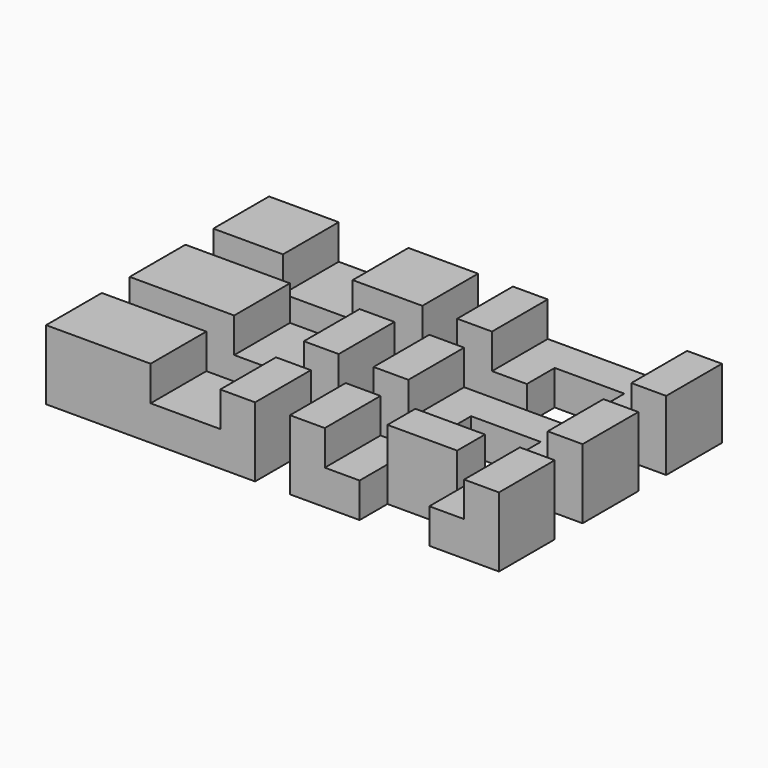
from build123d import *

# Parameters (mm, degrees)
F0_W     = 12.7000005782
F0_H     = 12.7
F1_DEPTH = 12.7
F0_W_2   = 12.6999994218
F0_W_3   = 19.05
F0_W_4   = 6.35
F0_H_2   = 6.35
F0_W_5   = 6.3500002891
F0_W_6   = 12.7
F2_DEPTH = 6.35


with BuildPart() as f1:
    # F0 (on Top) → F1 (new body)
    with BuildSketch(Plane.XY):
        with Locations((-34.9249997109, 19.05)):
            Rectangle(F0_W, F0_H)
    extrude(amount=F1_DEPTH)



with BuildPart() as f1b:
    # F0 (on Top) → F1, piece 2 (new body)
    with BuildSketch(Plane.XY):
        with Locations((-9.5249997109, 19.05)):
            Rectangle(F0_W_2, F0_H)
    extrude(amount=F1_DEPTH)


with BuildPart() as f1c:
    # F0 (on Top) → F1, piece 3 (new body)
    with BuildSketch(Plane.XY):
        with Locations((-31.75, 0)):
            Rectangle(F0_W_3, F0_H)
    extrude(amount=F1_DEPTH)



with BuildPart() as f1d:
    # F0 (on Top) → F1, piece 4 (new body)
    with BuildSketch(Plane.XY):
        with Locations((-6.35, 0)):
            Rectangle(F0_W_4, F0_H)
    extrude(amount=F1_DEPTH)


with BuildPart() as f1e:
    # F0 (on Top) → F1, piece 5 (new body)
    with BuildSketch(Plane.XY):
        with Locations((-6.35, -19.05)):
            Rectangle(F0_W_4, F0_H)
    extrude(amount=F1_DEPTH)



with BuildPart() as f1f:
    # F0 (on Top) → F1, piece 6 (new body)
    with BuildSketch(Plane.XY):
        with Locations((-31.75, -19.05)):
            Rectangle(F0_W_3, F0_H)
    extrude(amount=F1_DEPTH)


with BuildPart() as f1g:
    # F0 (on Top) → F1, piece 7 (new body)
    with BuildSketch(Plane.XY):
        with Locations((6.35, -19.05)):
            Rectangle(F0_W_4, F0_H)
    extrude(amount=F1_DEPTH)



with BuildPart() as f1h:
    # F0 (on Top) → F1, piece 8 (new body)
    with BuildSketch(Plane.XY):
        with Locations((22.2249997109, -15.875)):
            Rectangle(F0_W_2, F0_H_2)
    extrude(amount=F1_DEPTH)


with BuildPart() as f1i:
    # F0 (on Top) → F1, piece 9 (new body)
    with BuildSketch(Plane.XY):
        with Locations((38.0999998555, -19.05)):
            Rectangle(F0_W_5, F0_H)
    extrude(amount=F1_DEPTH)


with BuildPart() as f1j:
    # F0 (on Top) → F1, piece 10 (new body)
    with BuildSketch(Plane.XY):
        with Locations((38.0999998555, 0)):
            Rectangle(F0_W_5, F0_H)
    extrude(amount=F1_DEPTH)



with BuildPart() as f1k:
    # F0 (on Top) → F1, piece 11 (new body)
    with BuildSketch(Plane.XY):
        with Locations((6.35, 0)):
            Rectangle(F0_W_4, F0_H)
    extrude(amount=F1_DEPTH)


with BuildPart() as f1l:
    # F0 (on Top) → F1, piece 12 (new body)
    with BuildSketch(Plane.XY):
        with Locations((6.35, 19.05)):
            Rectangle(F0_W_4, F0_H)
    extrude(amount=F1_DEPTH)



with BuildPart() as f1m:
    # F0 (on Top) → F1, piece 13 (new body)
    with BuildSketch(Plane.XY):
        with Locations((38.0999998555, 19.05)):
            Rectangle(F0_W_5, F0_H)
    extrude(amount=F1_DEPTH)


with BuildPart() as f1_1:
    add(f1.part)

    add(f1b.part)  # F2 merges F1b
    # F0 (on Top) → F2 (join)
    with BuildSketch(Plane.XY):
        with Locations((-22.2249994218, 19.05)):
            Rectangle(F0_W_6, F0_H)
    extrude(amount=F2_DEPTH)


with BuildPart() as f1c_1:
    add(f1c.part)

    add(f1d.part)  # F2#2 merges F1d
    # F0 (on Top) → F2, piece 2 (join)
    with BuildSketch(Plane.XY):
        with Locations((-15.875, 0)):
            Rectangle(F0_W_6, F0_H)
    extrude(amount=F2_DEPTH)


with BuildPart() as f1j_1:
    add(f1j.part)

    add(f1k.part)  # F2#3 merges F1k
    # F0 (on Top) → F2, piece 3 (join)
    with BuildSketch(Plane.XY):
        Polygon((28.5749994218, -6.35), (34.9249997109, -6.35), (34.9249997109, 6.35), (9.525, 6.35), (9.525, -6.35), (15.875, -6.35), (15.875, 0), (28.5749994218, 0), align=None)
    extrude(amount=F2_DEPTH)


with BuildPart() as f1l_1:
    add(f1l.part)

    add(f1m.part)  # F2#4 merges F1m
    # F0 (on Top) → F2, piece 4 (join)
    with BuildSketch(Plane.XY):
        Polygon((34.9249997109, 12.7), (34.9249997109, 25.4), (28.5749994218, 25.4), (9.525, 25.4), (9.525, 12.7), (15.875, 12.7), (15.875, 19.05), (28.5749994218, 19.05), (28.5749994218, 12.7), align=None)
    extrude(amount=F2_DEPTH)


with BuildPart() as f1g_1:
    add(f1g.part)

    add(f1h.part)  # F2#5 merges F1h

    add(f1i.part)  # F2#5 merges F1i
    # F0 (on Top) → F2, piece 5 (join)
    with BuildSketch(Plane.XY):
        Polygon((15.875, -25.4), (15.875, -19.05), (15.875, -12.7), (9.525, -12.7), (9.525, -25.4), align=None)
        Polygon((28.5749994218, -25.4), (34.9249997109, -25.4), (34.9249997109, -12.7), (28.5749994218, -12.7), (28.5749994218, -19.05), align=None)
    extrude(amount=F2_DEPTH)


with BuildPart() as f1e_1:
    add(f1e.part)

    add(f1f.part)  # F2#6 merges F1f
    # F0 (on Top) → F2, piece 6 (join)
    with BuildSketch(Plane.XY):
        with Locations((-15.875, -19.05)):
            Rectangle(F0_W_6, F0_H)
    extrude(amount=F2_DEPTH)


solid = Compound([f1_1.part, f1c_1.part, f1j_1.part, f1l_1.part, f1g_1.part, f1e_1.part])
